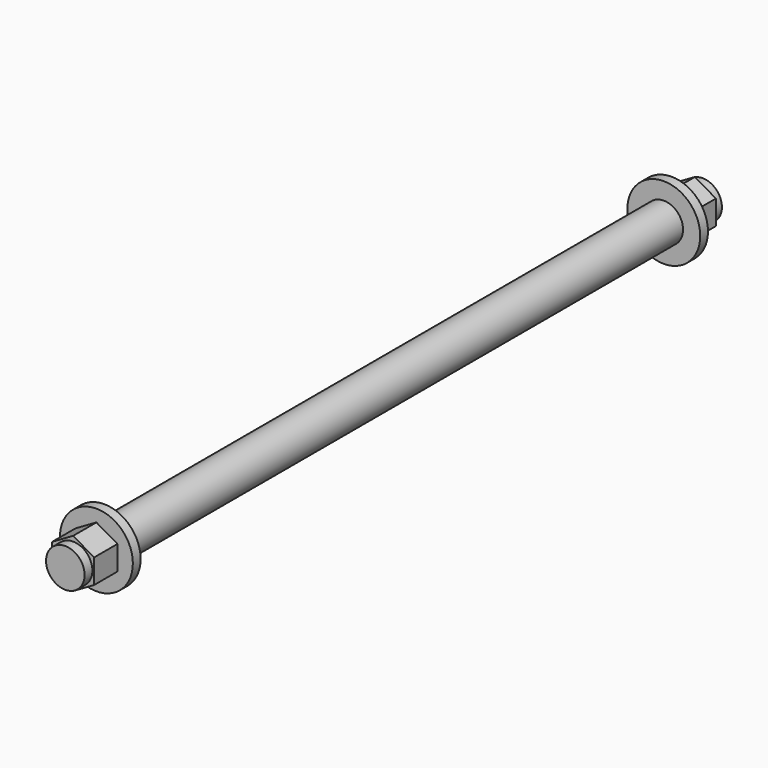
from build123d import *

# Parameters (mm, degrees)
SKETCH013_R     = 3.96875
PAD009_DEPTH    = 164
SKETCH014_R     = 7.5
PAD010_DEPTH    = 10
SKETCH015_R     = 7.5
POCKET003_DEPTH = 8
SKETCH016_R     = 7.5
SKETCH016_R_2   = 3.96875
POCKET004_DEPTH = 2
SKETCH017_R     = 7.5
PAD011_DEPTH    = 10
SKETCH018_R     = 7.5
POCKET005_DEPTH = 8
SKETCH019_R     = 7.5
SKETCH019_R_2   = 3.96875
POCKET006_DEPTH = 2


with BuildPart() as part:
    # Sketch013 → Pad009 (new body)
    with BuildSketch(Plane(origin=(500, 82, 56), x_dir=(1, 0, 0), z_dir=(0, -1, 0))):
        Circle(SKETCH013_R)
    extrude(amount=PAD009_DEPTH)

    # Sketch014 → Pad010 (new body)
    with BuildSketch(Plane(origin=(500, 82, 56), x_dir=(1, 0, 0), z_dir=(0, 1, 0))):
        Circle(SKETCH014_R)
    extrude(amount=-PAD010_DEPTH)

    # Sketch015 → Pocket003 (cut)
    with BuildSketch(Plane(origin=(500, 82, 56), x_dir=(1, 0, 0), z_dir=(0, 1, 0))):
        Circle(SKETCH015_R)
        Polygon((0, 5), (-4.330127, 2.5), (-4.330127, -2.5), (0, -5), (4.330127, -2.5), (4.330127, 2.5), align=None, mode=Mode.SUBTRACT)
    extrude(amount=-POCKET003_DEPTH, mode=Mode.SUBTRACT)

    # Sketch016 → Pocket004 (cut)
    with BuildSketch(Plane(origin=(500, 82, 56), x_dir=(1, 0, 0), z_dir=(0, 1, 0))):
        Circle(SKETCH016_R)
        Circle(SKETCH016_R_2, mode=Mode.SUBTRACT)
    extrude(amount=-POCKET004_DEPTH, mode=Mode.SUBTRACT)

    # Sketch017 → Pad011 (new body)
    with BuildSketch(Plane(origin=(500, -82, 56), x_dir=(1, 0, 0), z_dir=(0, -1, 0))):
        Circle(SKETCH017_R)
    extrude(amount=-PAD011_DEPTH)

    # Sketch018 → Pocket005 (cut)
    with BuildSketch(Plane(origin=(500, -82, 56), x_dir=(1, 0, 0), z_dir=(0, -1, 0))):
        Circle(SKETCH018_R)
        Polygon((0, 5), (-4.330127, 2.5), (-4.330127, -2.5), (0, -5), (4.330127, -2.5), (4.330127, 2.5), align=None, mode=Mode.SUBTRACT)
    extrude(amount=-POCKET005_DEPTH, mode=Mode.SUBTRACT)

    # Sketch019 → Pocket006 (cut)
    with BuildSketch(Plane(origin=(500, -82, 56), x_dir=(1, 0, 0), z_dir=(0, -1, 0))):
        Circle(SKETCH019_R)
        Circle(SKETCH019_R_2, mode=Mode.SUBTRACT)
    extrude(amount=-POCKET006_DEPTH, mode=Mode.SUBTRACT)


with BuildPart() as part_1:
    # Clone021 placement: moved
    add(part.part.moved(Location((-1000, 0, -112))))


solid = part_1.part
